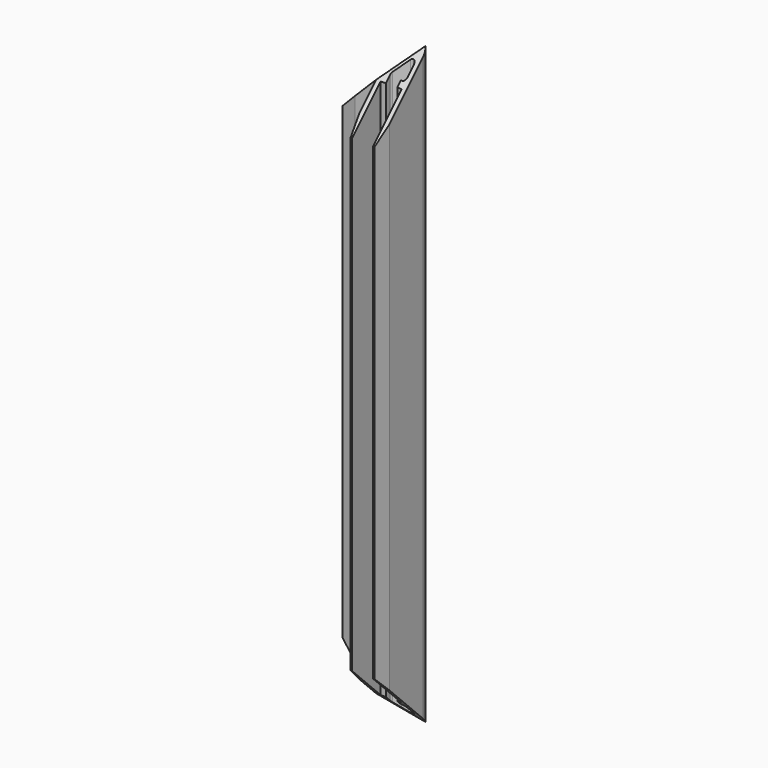
from build123d import *

# Parameters (mm, degrees)
F1_DEPTH   = 100
F2_SIZE2   = 1
F2_SIZE    = 5
F2_2_SIZE2 = 1
F2_2_SIZE  = 5
F3_SIZE2   = 5
F3_SIZE    = 1
F3_2_SIZE2 = 5
F3_2_SIZE  = 1
F4_R       = 1
F7_DEPTH   = 25
F8_DEPTH   = 25


with BuildPart() as f1:
    # F0 (on Top) → F1 (new body, symmetric)
    with BuildSketch(Plane.XY):
        with BuildLine():
            Line((-3, 0), (-22, 0))
            Line((-22, 0), (-22, -1.5))
            Line((-22, -1.5), (-10, -1.5))
            Line((-10, -1.5), (-10, -2.9619401321))
            Line((-10, -2.9619401321), (-8.5, -2.9619401321))
            Line((-8.5, -2.9619401321), (-8.5, -1.5))
            Line((-8.5, -1.5), (-2.5606601718, -1.5))
            Line((-2.5606601718, -1.5), (-7.8245233162, -6.7638631444))
            Line((-7.8245233162, -6.7638631444), (-10, -6.7638631444))
            Line((-10, -6.7638631444), (-10, -8.5))
            Line((-10, -8.5), (-22, -8.5))
            Line((-22, -8.5), (-22, -10))
            Line((-22, -10), (-10, -10))
            Line((-10, -10), (-10, -22))
            Line((-10, -22), (-8.5, -22))
            Line((-8.5, -22), (-8.5, -10))
            Line((-8.5, -10), (-6.7638631444, -10))
            Line((-6.7638631444, -10), (-6.7638631444, -7.8245233162))
            Line((-6.7638631444, -7.8245233162), (-1.5, -2.5606601718))
            Line((-1.5, -2.5606601718), (-1.5, -8.5))
            Line((-1.5, -8.5), (-2.9619401321, -8.5))
            Line((-2.9619401321, -8.5), (-2.9619401321, -10))
            Line((-2.9619401321, -10), (-1.5, -10))
            Line((-1.5, -10), (-1.5, -22))
            Line((-1.5, -22), (0, -22))
            Line((0, -22), (0, -3))
            ThreePointArc((0, -3), (-0.8786796564, -0.8786796564), (-3, 0))
        make_face()
    extrude(amount=F1_DEPTH, both=True)

    # F2
    f2_edges = [f1.edges().sort_by_distance(p)[0] for p in [
        (-22, -10, 0),
    ]]
    f2_side = f1.faces().sort_by_distance((-16, -10, 0))[0]
    chamfer(f2_edges, length=F2_SIZE, length2=F2_SIZE2, reference=f2_side)

    # F2#2
    f2_2_edges = [f1.edges().sort_by_distance(p)[0] for p in [
        (0, -22, 0),
    ]]
    f2_2_side = f1.faces().sort_by_distance((0, -12.5, 0))[0]
    chamfer(f2_2_edges, length=F2_2_SIZE, length2=F2_2_SIZE2, reference=f2_2_side)

    # F3
    f3_edges = [f1.edges().sort_by_distance(p)[0] for p in [
        (-22, 0, 0),
    ]]
    f3_side = f1.faces().sort_by_distance((-22, -0.75, 0))[0]
    chamfer(f3_edges, length=F3_SIZE, length2=F3_SIZE2, reference=f3_side)

    # F3#2
    f3_2_edges = [f1.edges().sort_by_distance(p)[0] for p in [
        (-10, -22, 0),
    ]]
    f3_2_side = f1.faces().sort_by_distance((-9.25, -22, 0))[0]
    chamfer(f3_2_edges, length=F3_2_SIZE, length2=F3_2_SIZE2, reference=f3_2_side)

    # F4
    f4_edges = [f1.edges().sort_by_distance(p)[0] for p in [
        (-2.56066, -1.5, 0),
        (-1.5, -2.56066, 0),
        (-6.763863, -7.824523, 0),
        (-7.824523, -6.763863, 0),
        (-1.5, -8.5, 0),
        (-8.5, -1.5, 0),
    ]]
    fillet(f4_edges, radius=F4_R)

    # F5 (on Front) → F7 (cut)
    with BuildSketch(Plane.XZ):
        Polygon((0, 100), (-22, 100), (-22, 78), align=None)
        Polygon((-22, -78), (-22, -100), (0, -100), align=None)
    extrude(amount=F7_DEPTH, mode=Mode.SUBTRACT)

    # F6 (on Right) → F8 (cut)
    with BuildSketch(Plane.YZ):
        Polygon((-22, 78), (0, 100), (-22, 100), align=None)
        Polygon((-22, -100), (0, -100), (-22, -78), align=None)
    extrude(amount=-F8_DEPTH, mode=Mode.SUBTRACT)


solid = f1.part
